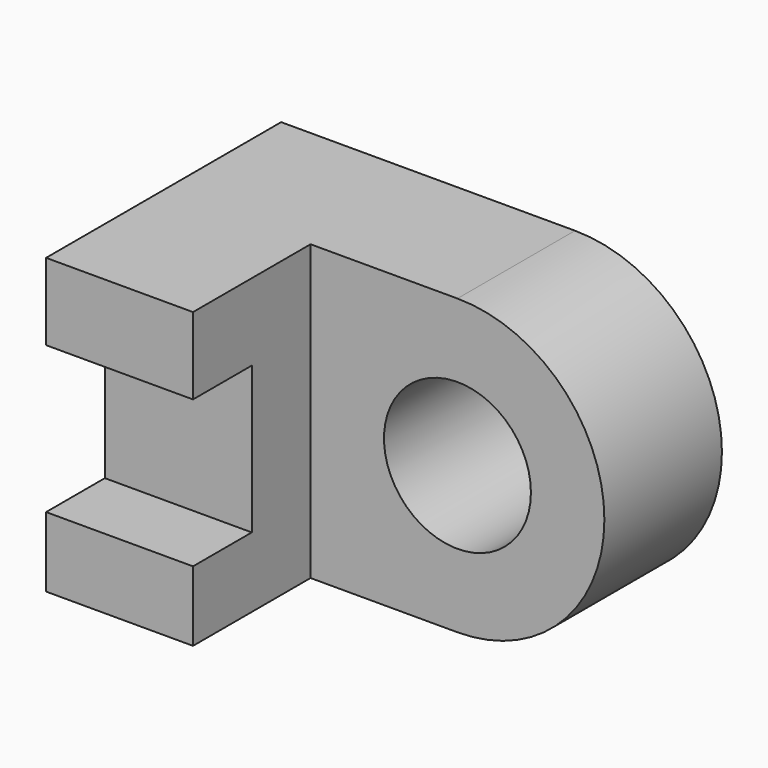
from build123d import *

# Parameters (mm, degrees)
F0_R     = 6.35
F1_DEPTH = 12.7
F2_W     = 12.7
F2_H     = 25.4
F3_DEPTH = 25.4
F4_W     = 6.35
F4_H     = 12.7
F5_DEPTH = 25.4


with BuildPart() as f1:
    # F0 (on Front) → F1 (new body)
    with BuildSketch(Plane.XZ):
        with BuildLine():
            Line((0, 25.4), (0, 0))
            Line((0, 0), (12.7, 0))
            ThreePointArc((12.7, 0), (25.4, 12.7), (12.7, 25.4))
            Line((12.7, 25.4), (0, 25.4))
        make_face()
        with Locations((12.7, 12.7)):
            Circle(F0_R, mode=Mode.SUBTRACT)
    extrude(amount=F1_DEPTH)

    # F2 (on Front) → F3 (join)
    with BuildSketch(Plane.XZ):
        with Locations((-6.35, 12.7)):
            Rectangle(F2_W, F2_H)
    extrude(amount=F3_DEPTH)

    # F4 (on Right) → F5 (cut)
    with BuildSketch(Plane.YZ):
        with Locations((-22.225, 12.402099)):
            Rectangle(F4_W, F4_H)
    extrude(amount=-F5_DEPTH, mode=Mode.SUBTRACT)


solid = f1.part
